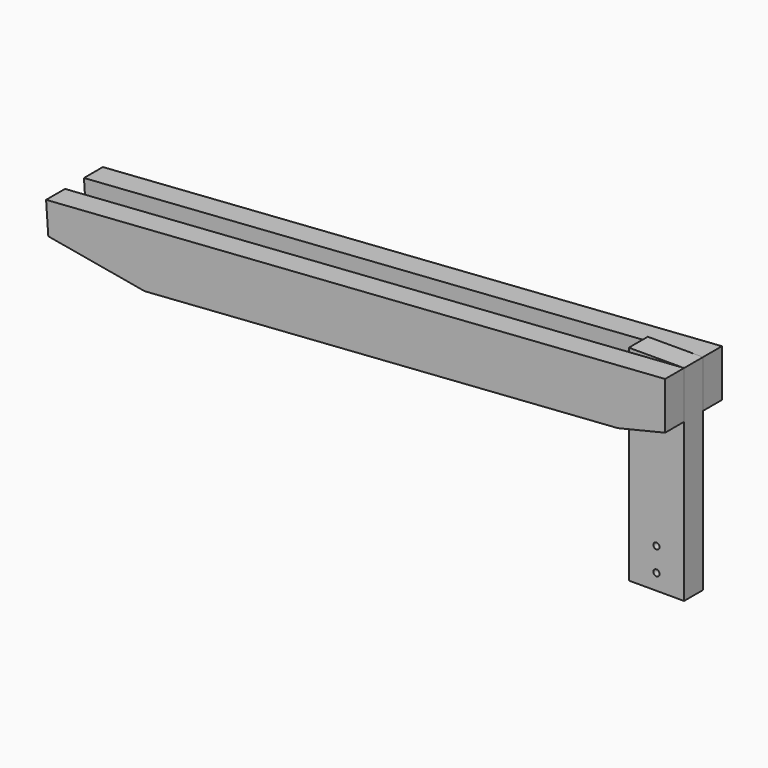
from build123d import *

# Parameters (mm, degrees)
F0_W     = 88.9
F0_H     = 38.1
F1_DEPTH = 330.2
F3_D     = 10
F5_DEPTH = 38.1
F8_DEPTH = 76.201


with BuildPart() as f1:
    # F0 (on Top) → F1 (new body)
    with BuildSketch(Plane.XY):
        with Locations((44.45, 19.05)):
            Rectangle(F0_W, F0_H)
    extrude(amount=F1_DEPTH)

    # F3 (through all)
    with Locations(Plane.XZ):
        with Locations((44.45, 63.5), (44.45, 25.4)):
            Hole(F3_D / 2)


with BuildPart() as f5:
    # F4 (on face) → F5 (new body)
    with BuildSketch(Plane.XZ):
        Polygon((88.9, 254), (88.9, 330.2), (0, 323.9401055744), (0, 234.8199828287), (12.7, 235.7142534609), align=None)
        Polygon((0, 234.8199828287), (0, 323.9401055744), (-907.9444327643, 260.0071888885), (-901.7, 171.3267679408), align=None)
    extrude(amount=F5_DEPTH)

    # F7 (on face) → F8 (cut, through all)
    with BuildSketch(Plane.XZ.offset(38.1)):
        Polygon((-904.3828118967, 209.4267679408), (-901.7, 171.3267679408), (-749.3, 182.0580155275), align=None)
    extrude(amount=-F8_DEPTH, mode=Mode.SUBTRACT)


with BuildPart() as f9_1:
    # F9: instance of F5
    add(f5.part.mirror(Plane(origin=(44.45, 19.05, 165.7490804907), x_dir=(1, 0, 0), z_dir=(0, -1, 0))))


solid = Compound([f1.part, f5.part, f9_1.part])
